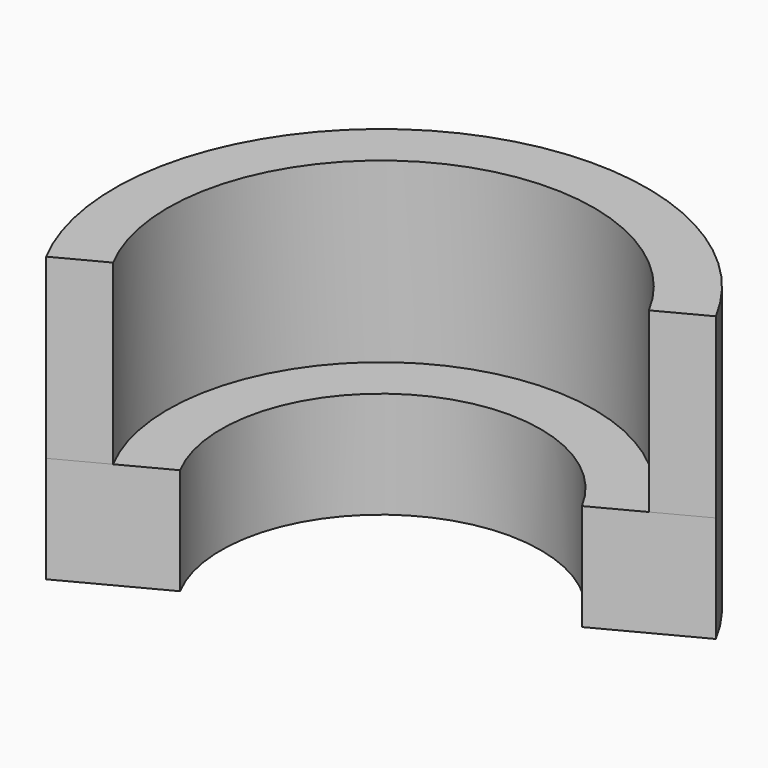
from build123d import *

# Parameters (mm, degrees)
F1_DEPTH = 127
F3_DEPTH = 76.2


with BuildPart() as f1:
    # F0 (on Top) → F1 (new body)
    with BuildSketch(Plane.XY):
        with BuildLine():
            ThreePointArc((-134.887172, -70.931029), (-70.931029, 134.887172), (134.887172, 70.931029))
            Line((134.887172, 70.931029), (168.608965, 88.663787))
            ThreePointArc((168.608965, 88.663787), (-88.663787, 168.608965), (-168.608965, -88.663787))
            Line((-168.608965, -88.663787), (-134.887172, -70.931029))
        make_face()
    extrude(amount=F1_DEPTH)

    # F2 (on face) → F3 (join)
    with BuildSketch(Plane(origin=(0, 0, 0), x_dir=(1, 0, 0), z_dir=(0, 0, -1))):
        with BuildLine():
            Line((-101.165379, 53.198272), (-168.608965, 88.663787))
            ThreePointArc((-168.608965, 88.663787), (-88.663787, -168.608965), (168.608965, -88.663787))
            Line((168.608965, -88.663787), (101.165379, -53.198272))
            ThreePointArc((101.165379, -53.198272), (-53.198272, -101.165379), (-101.165379, 53.198272))
        make_face()
    extrude(amount=F3_DEPTH)


solid = f1.part
